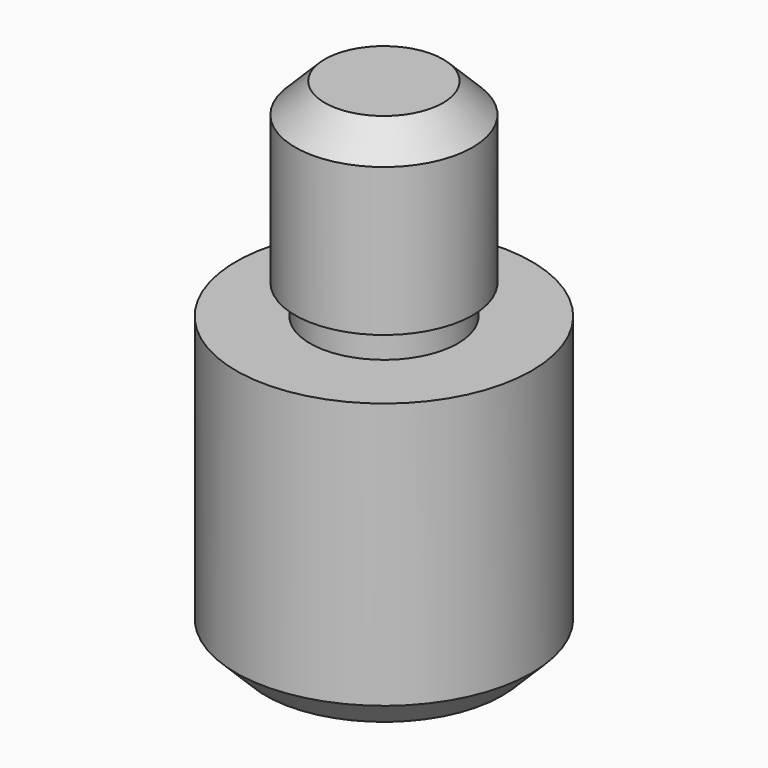
from build123d import *

# Parameters (mm, degrees)
F0_R     = 5
F1_DEPTH = 10
F2_R     = 3
F3_DEPTH = 7
F4_W     = 0.5
F4_H     = 1
F6_SIZE  = 1
F7_SIZE  = 1


with BuildPart() as f1:
    # F0 (on Top) → F1 (new body)
    with BuildSketch(Plane.XY):
        Circle(F0_R)
    extrude(amount=F1_DEPTH)

    # F2 (on face) → F3 (join)
    with BuildSketch(Plane.XY.offset(10)):
        Circle(F2_R)
    extrude(amount=F3_DEPTH)

    # F4 (on Front) → F5 (revolve, cut)
    with BuildSketch(Plane.XZ):
        with Locations((2.75, 10.5)):
            Rectangle(F4_W, F4_H)
    revolve(axis=Axis((0, 0, 10), (0, 0, -1)), mode=Mode.SUBTRACT)

    # F6
    f6_edges = [f1.edges().sort_by_distance(p)[0] for p in [
        (-3, 0, 17),
    ]]
    chamfer(f6_edges, length=F6_SIZE)

    # F7
    f7_edges = [f1.edges().sort_by_distance(p)[0] for p in [
        (-5, 0, 0),
    ]]
    chamfer(f7_edges, length=F7_SIZE)


solid = f1.part
